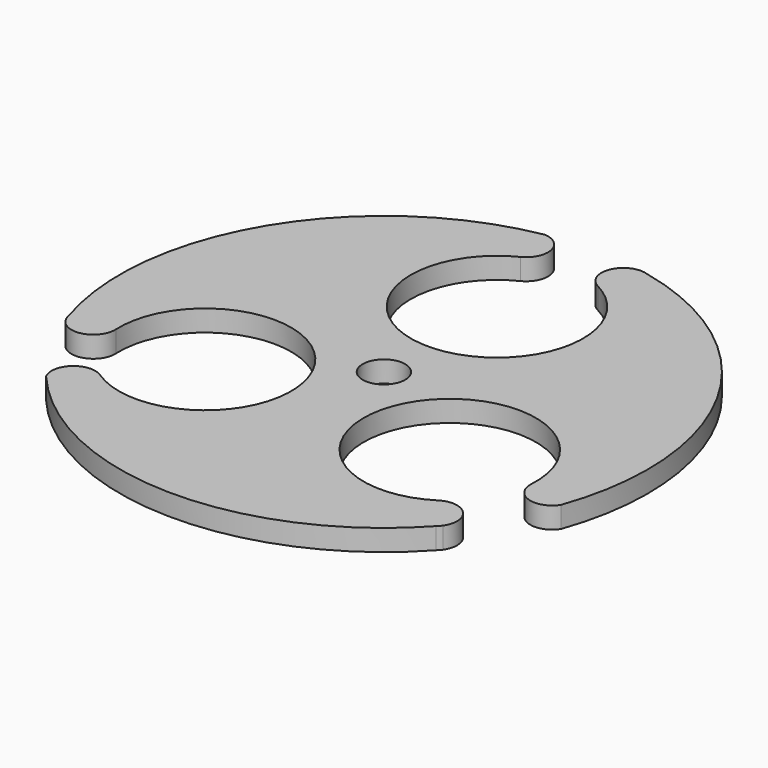
from build123d import *

# Parameters (mm, degrees)
F0_R     = 3
F1_DEPTH = 3


with BuildPart() as f1:
    # F0 (on Top) → F1 (new body)
    with BuildSketch(Plane.XY):
        with BuildLine():
            ThreePointArc((2.243782, 25.522082), (2.11952, 25.894266), (1.999187, 26.267739))
            ThreePointArc((1.999187, 26.267739), (2.097618, 25.887082), (2.243782, 25.522082))
        make_face()
        with BuildLine():
            ThreePointArc((45.522983, 73.860736), (45.144109, 73.965821), (44.754928, 74.021739))
            ThreePointArc((44.754928, 74.021739), (45.13938, 73.943261), (45.522983, 73.860736))
        make_face()
        with BuildLine():
            ThreePointArc((65.50129, 12.956179), (65.2411, 12.662473), (64.97783, 12.371525))
            ThreePointArc((64.97783, 12.371525), (65.258273, 12.647097), (65.50129, 12.956179))
        make_face()
        with BuildLine():
            ThreePointArc((32.085906, 68.314754), (33.728593, 71.692394), (30.881851, 74.142482))
            ThreePointArc((30.881851, 74.142482), (5.617411, 56.734654), (1.999187, 26.267739))
            ThreePointArc((1.999187, 26.267739), (2.11952, 25.894266), (2.243782, 25.522082))
            ThreePointArc((2.243782, 25.522082), (5.767854, 23.860831), (8.095696, 26.984929))
            ThreePointArc((8.095696, 26.984929), (30.811472, 33.520681), (13.520687, 17.40388))
            ThreePointArc((13.520687, 17.40388), (9.774222, 17.137669), (9.075754, 13.447274))
            ThreePointArc((9.075754, 13.447274), (36.783596, 0.271541), (64.97783, 12.371525))
            ThreePointArc((64.97783, 12.371525), (65.2411, 12.662473), (65.50129, 12.956179))
            ThreePointArc((65.50129, 12.956179), (65.17794, 16.83874), (61.30847, 17.292661))
            ThreePointArc((61.30847, 17.292661), (44.290455, 33.697224), (66.893407, 26.781366))
            ThreePointArc((66.893407, 26.781366), (68.997185, 23.669938), (72.542395, 24.910244))
            ThreePointArc((72.542395, 24.910244), (70.098993, 55.493805), (45.522983, 73.860736))
            ThreePointArc((45.522983, 73.860736), (45.13938, 73.943261), (44.754928, 74.021739))
            ThreePointArc((44.754928, 74.021739), (41.554206, 71.800429), (43.095833, 68.22241))
            ThreePointArc((43.095833, 68.22241), (37.398073, 45.282094), (32.085906, 68.314754))
        make_face()
        with Locations((37.5, 37.5)):
            Circle(F0_R, mode=Mode.SUBTRACT)
    extrude(amount=F1_DEPTH)


solid = f1.part
